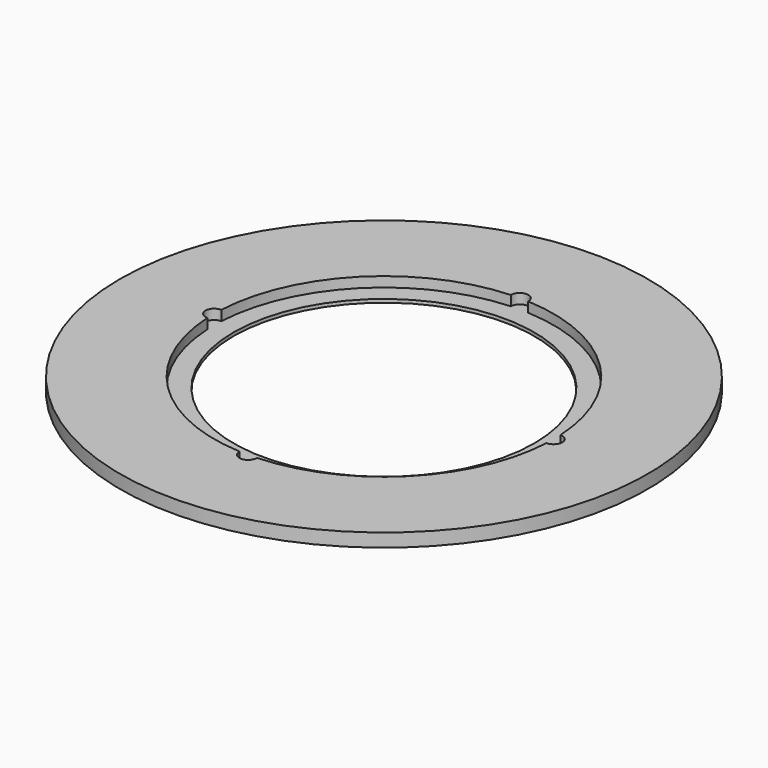
from build123d import *

# Parameters (mm, degrees)
F3_START = 0.5
F2_R     = 1.3
F3_DEPTH = 1.5


with BuildPart() as f1:
    # F0 (on Front) → F1 (revolve)
    with BuildSketch(Plane.XZ):
        Polygon((-39.5, 2), (-39.5, 0), (-22.5, 0), (-22.5, 0.5), (-25.4, 0.5), (-25.4, 2), (-34.4469576932, 2), align=None)
    revolve(axis=Axis((0, 0, 4.7885915264), (0, 0, -1)))

    # F2 (on Top) → F3 (cut)
    with BuildSketch(Plane.XY.offset(F3_START)):
        with Locations((0, 25.4)):
            Circle(F2_R)
        with Locations((-25.4, 0)):
            Circle(F2_R)
        with Locations((0, -25.4)):
            Circle(F2_R)
        with Locations((25.4, 0)):
            Circle(F2_R)
    extrude(amount=F3_DEPTH, mode=Mode.SUBTRACT)


solid = f1.part
